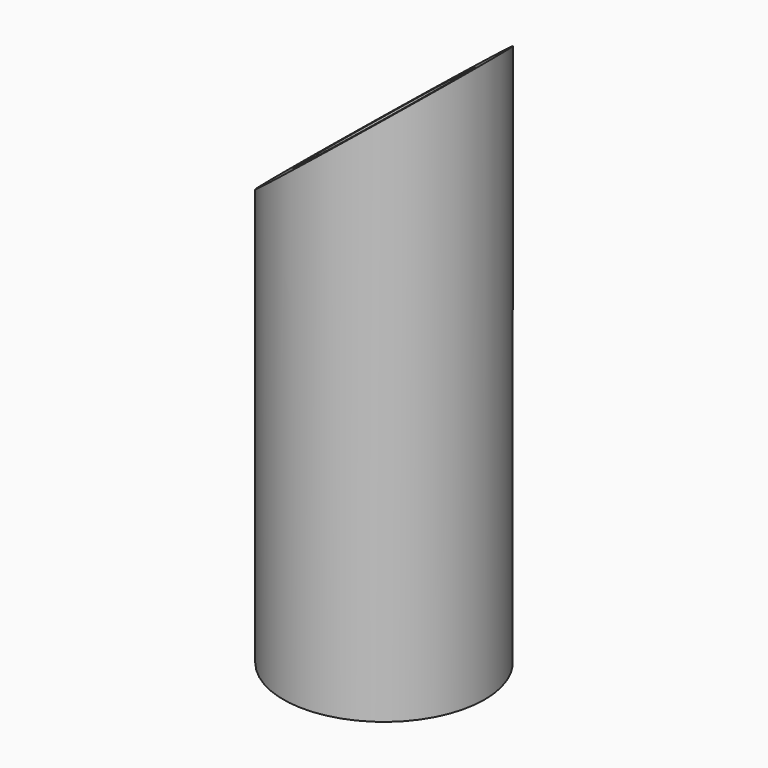
from build123d import *

# Parameters (mm, degrees)
F0_R     = 7.62
F0_R_2   = 5.41834
F1_DEPTH = 45.72
F3_DEPTH = 12.7


with BuildPart() as f1:
    # F0 (on Top) → F1 (new body)
    with BuildSketch(Plane.XY):
        Circle(F0_R)
        Circle(F0_R_2, mode=Mode.SUBTRACT)
    extrude(amount=F1_DEPTH)

    # F2 (on Front) → F3 (cut, symmetric)
    with BuildSketch(Plane.XZ):
        Polygon((-24.46349, 16.676838), (19.292864, 51.805038), (-24.46349, 51.805038), align=None)
    extrude(amount=F3_DEPTH, both=True, mode=Mode.SUBTRACT)


solid = f1.part
